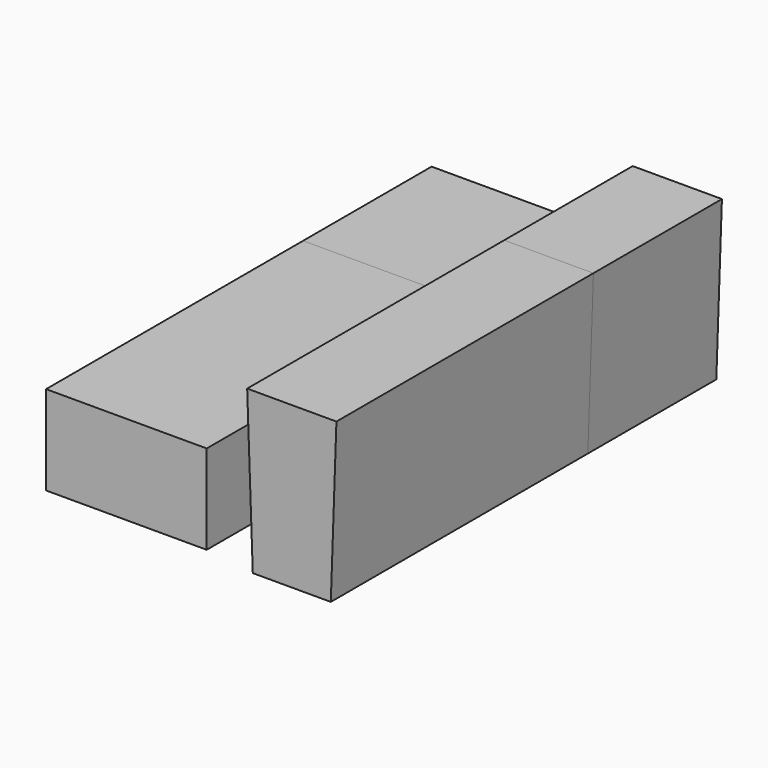
from build123d import *

# Parameters (mm, degrees)
F1_DEPTH = 228.6
F2_W     = 114.3
F2_H     = 63.5
F3_DEPTH = 228.6
F4_DEPTH = 114.3
F5_DEPTH = 114.3


with BuildPart() as f1:
    # F0 (on Front) → F1 (new body)
    with BuildSketch(Plane.XZ):
        Polygon((-14.1572295701, 57.1352146626), (-45.9072295701, 57.1352146626), (-41.9168895701, -57.1647853374), (-14.1572295701, -57.1647853374), align=None)
        Polygon((17.5927704299, 57.1352146626), (-14.1572295701, 57.1352146626), (-14.1572295701, -57.1647853374), (13.6024304299, -57.1647853374), align=None)
    extrude(amount=F1_DEPTH)


with BuildPart() as f3:
    # F2 (on Front) → F3 (new body)
    with BuildSketch(Plane.XZ):
        with Locations((-131.8571120501, -21.4845678326)):
            Rectangle(F2_W, F2_H)
    extrude(amount=F3_DEPTH)


with BuildPart() as f4:
    # F0 (on Front) → F4 (new body)
    with BuildSketch(Plane.XZ):
        Polygon((-14.1572295701, 57.1352146626), (-45.9072295701, 57.1352146626), (-41.9168895701, -57.1647853374), (-14.1572295701, -57.1647853374), align=None)
        Polygon((17.5927704299, 57.1352146626), (-14.1572295701, 57.1352146626), (-14.1572295701, -57.1647853374), (13.6024304299, -57.1647853374), align=None)
    extrude(amount=-F4_DEPTH)


with BuildPart() as f5:
    # F2 (on Front) → F5 (new body)
    with BuildSketch(Plane.XZ):
        with Locations((-131.8571120501, -21.4845678326)):
            Rectangle(F2_W, F2_H)
    extrude(amount=-F5_DEPTH)


solid = Compound([f1.part, f3.part, f4.part, f5.part])
